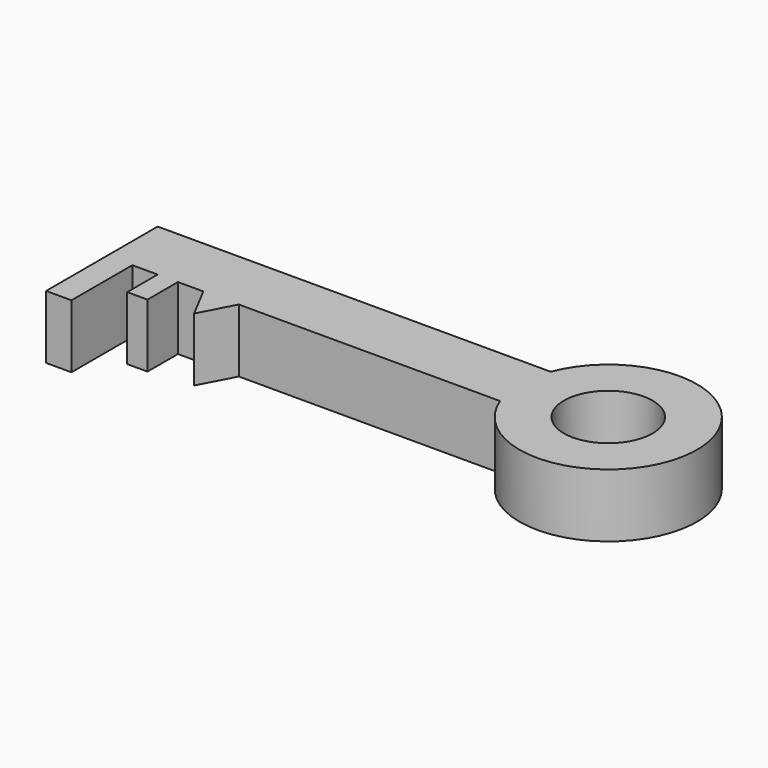
from build123d import *

# Parameters (mm, degrees)
F0_R     = 17.5
F1_DEPTH = 25


with BuildPart() as f1:
    # F0 (on Top) → F1 (new body)
    with BuildSketch(Plane.XY):
        with BuildLine():
            Line((35.937557, 38.266499), (-119.062443, 38.266499))
            Line((-119.062443, 38.266499), (-119.062443, 13.266499))
            Line((-119.062443, 13.266499), (-119.062443, -16.733501))
            Line((-119.062443, -16.733501), (-109.062443, -16.733501))
            Line((-109.062443, -16.733501), (-109.062443, 13.266499))
            Line((-109.062443, 13.266499), (-99.062443, 13.266499))
            Line((-99.062443, 13.266499), (-99.062443, -1.733501))
            Line((-99.062443, -1.733501), (-91.062443, -1.733501))
            Line((-91.062443, -1.733501), (-91.062443, 13.266499))
            Line((-91.062443, 13.266499), (-81.062443, 13.266499))
            Line((-81.062443, 13.266499), (-74.062443, 0))
            Line((-74.062443, 0), (-67.062443, 13.266499))
            Line((-67.062443, 13.266499), (35.937557, 13.266499))
            ThreePointArc((35.937557, 13.266499), (103.629299, 25.766499), (35.937557, 38.266499))
        make_face()
        with Locations((68.629299, 25.766499)):
            Circle(F0_R, mode=Mode.SUBTRACT)
    extrude(amount=F1_DEPTH)


solid = f1.part
